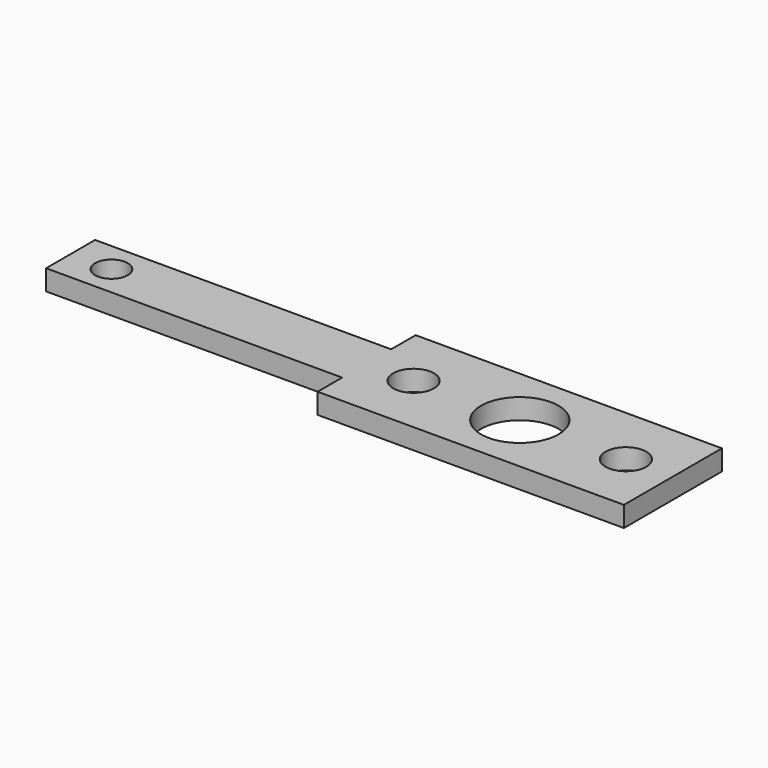
from build123d import *

# Parameters (mm, degrees)
F0_R     = 4
F0_R_2   = 5
F0_R_3   = 9.5
F1_DEPTH = 5


with BuildPart() as f1:
    # F0 (on Top) → F1 (new body)
    with BuildSketch(Plane.XY):
        Polygon((37.5, 15), (-37.5, 15), (-37.5, 7.5), (-110, 7.5), (-110, -7.5), (-37.5, -7.5), (-37.5, -15), (37.5, -15), (37.5, 0), align=None)
        with Locations((-100, 0)):
            Circle(F0_R, mode=Mode.SUBTRACT)
        with Locations((-26, 0)):
            Circle(F0_R_2, mode=Mode.SUBTRACT)
        Circle(F0_R_3, mode=Mode.SUBTRACT)
        with Locations((26, 0)):
            Circle(F0_R_2, mode=Mode.SUBTRACT)
    extrude(amount=F1_DEPTH)


solid = f1.part
